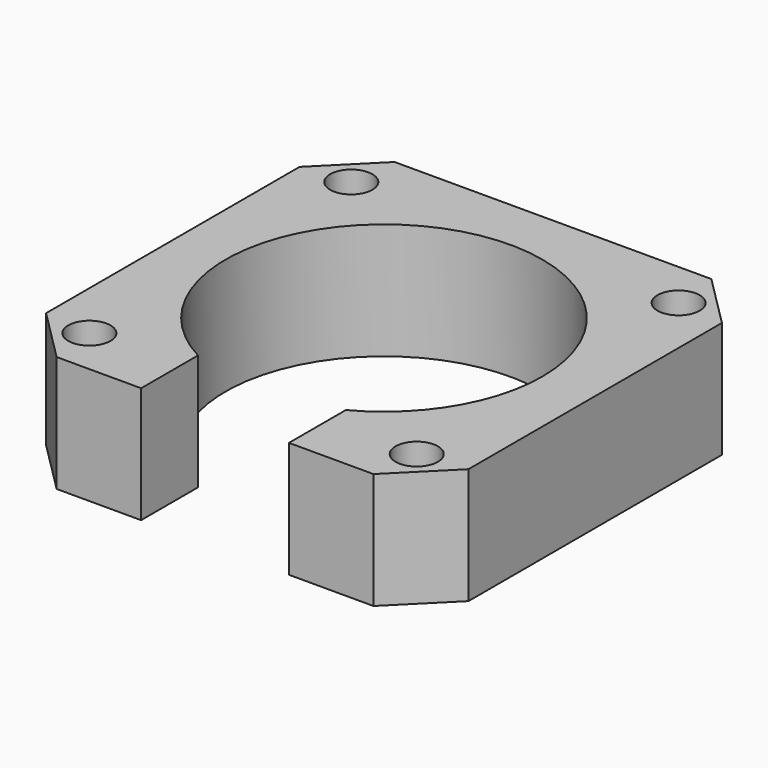
from build123d import *

# Parameters (mm, degrees)
F0_R     = 2
F1_DEPTH = 11
F2_SIZE  = 5


with BuildPart() as f1:
    # F0 (on Top) → F1 (new body)
    with BuildSketch(Plane.XY):
        with BuildLine():
            Line((20, -20), (20, 20))
            Line((20, 20), (-20, 20))
            Line((-20, 20), (-20, -20))
            Line((-20, -20), (-7, -20))
            Line((-7, -20), (-7, -13.266499))
            ThreePointArc((-7, -13.266499), (-7.745967, 12.845233), (15, 0))
            ThreePointArc((15, 0), (12.845233, -7.745967), (7, -13.266499))
            Line((7, -13.266499), (7, -20))
            Line((7, -20), (20, -20))
        make_face()
        with Locations((-15.5, -15.5)):
            Circle(F0_R, mode=Mode.SUBTRACT)
        with Locations((15.5, -15.5)):
            Circle(F0_R, mode=Mode.SUBTRACT)
        with Locations((-15.5, 15.5)):
            Circle(F0_R, mode=Mode.SUBTRACT)
        with Locations((15.5, 15.5)):
            Circle(F0_R, mode=Mode.SUBTRACT)
    extrude(amount=F1_DEPTH)

    # F2
    f2_edges = [f1.edges().sort_by_distance(p)[0] for p in [
        (-20, -20, 5.5),
        (-20, 20, 5.5),
        (20, 20, 5.5),
        (20, -20, 5.5),
    ]]
    chamfer(f2_edges, length=F2_SIZE)


solid = f1.part
